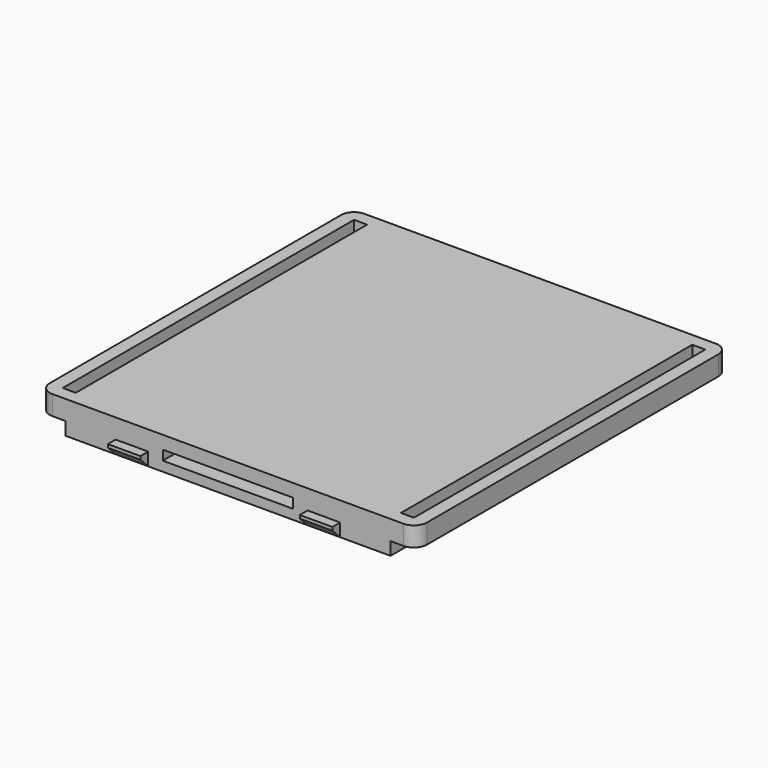
from build123d import *

# Parameters (mm, degrees)
F0_W      = 50
F0_H      = 60
F1_DEPTH  = 5
F4_START  = 2
F3_W      = 58
F3_H      = 60
F4_DEPTH  = 3
F2_W      = 45.5
F2_H      = 45.5
F5_DEPTH  = 3
F7_START  = 1.5
F6_W      = 20
F6_H      = 30
F7_DEPTH  = 1.5
F8_W      = 2
F8_H      = 56
F9_DEPTH  = 25
F10_R     = 2
F11_W     = 5
F11_H     = 1.5
F12_DEPTH = 2
F13_SIZE  = 1.5


with BuildPart() as f1:
    # F0 (on Top) → F1 (new body)
    with BuildSketch(Plane.XY):
        Rectangle(F0_W, F0_H)
    extrude(amount=F1_DEPTH)

    # F3 (on Top) → F4 (join)
    with BuildSketch(Plane.XY.offset(F4_START)):
        Rectangle(F3_W, F3_H)
    extrude(amount=F4_DEPTH)

    # F2 (on Top) → F5 (cut)
    with BuildSketch(Plane.XY):
        Rectangle(F2_W, F2_H)
    extrude(amount=F5_DEPTH, mode=Mode.SUBTRACT)

    # F6 (on Top) → F7 (cut)
    with BuildSketch(Plane.XY.offset(F7_START)):
        with Locations((0, -15)):
            Rectangle(F6_W, F6_H)
    extrude(amount=F7_DEPTH, mode=Mode.SUBTRACT)

    # F8 (on Top) → F9 (cut)
    with BuildSketch(Plane.XY):
        with Locations((-26, 0)):
            Rectangle(F8_W, F8_H)
        with Locations((26, 0)):
            Rectangle(F8_W, F8_H)
    extrude(amount=F9_DEPTH, mode=Mode.SUBTRACT)

    # F10
    f10_edges = [f1.edges().sort_by_distance(p)[0] for p in [
        (29, -30, 3.5),
        (-29, -30, 3.5),
        (-29, 30, 3.5),
        (29, 30, 3.5),
    ]]
    fillet(f10_edges, radius=F10_R)

    # F11 (on Top) → F12 (join)
    with BuildSketch(Plane.XY):
        with Locations((-14.75, -30.75)):
            Rectangle(F11_W, F11_H)
        with Locations((14.75, -30.75)):
            Rectangle(F11_W, F11_H)
        with Locations((14.75, 30.75)):
            Rectangle(F11_W, F11_H)
        with Locations((-14.75, 30.75)):
            Rectangle(F11_W, F11_H)
    extrude(amount=F12_DEPTH)

    # F13
    f13_edges = [f1.edges().sort_by_distance(p)[0] for p in [
        (-14.75, -31.5, 0),
        (14.75, -31.5, 0),
        (14.75, 31.5, 0),
        (-14.75, 31.5, 0),
    ]]
    chamfer(f13_edges, length=F13_SIZE)


solid = f1.part
